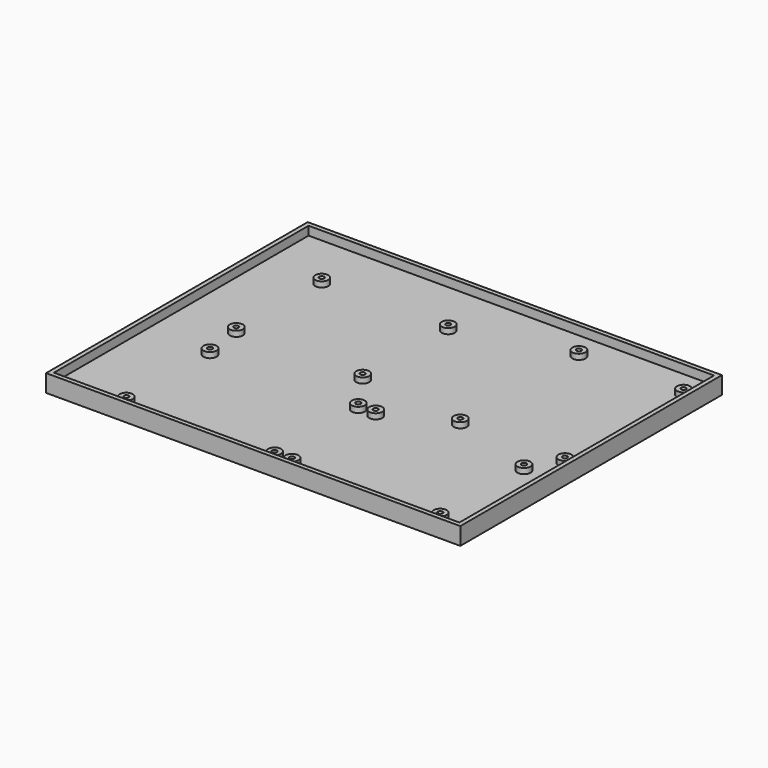
from build123d import *

# Parameters (mm, degrees)
SKETCH_W      = 190
SKETCH_H      = 150
PAD_DEPTH     = 4
SKETCH002_W   = 190
SKETCH002_H   = 150
SKETCH002_W_2 = 186
SKETCH002_H_2 = 146
PAD001_DEPTH  = 8
SKETCH006_R   = 1.1
PAD006_DEPTH  = 6.5
SKETCH007_R   = 3
PAD007_DEPTH  = 6.5
SKETCH008_R   = 1.1
PAD008_DEPTH  = 6.5
SKETCH009_R   = 3
PAD009_DEPTH  = 6.5
SKETCH004_R   = 1.1
PAD004_DEPTH  = 6.5
SKETCH005_R   = 3
PAD005_DEPTH  = 6.5
SKETCH001_R   = 1.1
PAD002_DEPTH  = 6.5
SKETCH003_R   = 3
PAD003_DEPTH  = 6.5


with BuildPart() as pad:
    # Sketch → Pad (new body)
    with BuildSketch(Plane.XY):
        with Locations((95, -75)):
            Rectangle(SKETCH_W, SKETCH_H)
    extrude(amount=PAD_DEPTH)


with BuildPart() as fusion:
    # Sketch002 → Pad001 (new body)
    with BuildSketch(Plane.XY):
        with Locations((95, -75)):
            Rectangle(SKETCH002_W, SKETCH002_H)
        with Locations((95, -75)):
            Rectangle(SKETCH002_W_2, SKETCH002_H_2, mode=Mode.SUBTRACT)
    extrude(amount=PAD001_DEPTH)

    # Fusion: union Pad
    add(pad.part)


with BuildPart() as pad006:
    # Sketch006 → Pad006 (new body)
    with BuildSketch(Plane.XY.offset(2.5)):
        with Locations((108, -96)):
            Circle(SKETCH006_R)
        with Locations((176, -96)):
            Circle(SKETCH006_R)
        with Locations((108, -144)):
            Circle(SKETCH006_R)
        with Locations((176, -144)):
            Circle(SKETCH006_R)
    extrude(amount=PAD006_DEPTH)


with BuildPart() as relay002:
    # Sketch007 → Pad007 (new body)
    with BuildSketch(Plane.XY):
        with Locations((108, -96)):
            Circle(SKETCH007_R)
        with Locations((176, -96)):
            Circle(SKETCH007_R)
        with Locations((108, -144)):
            Circle(SKETCH007_R)
        with Locations((176, -144)):
            Circle(SKETCH007_R)
    extrude(amount=PAD007_DEPTH)

    # Cut002: cut Pad006
    add(pad006.part, mode=Mode.SUBTRACT)


with BuildPart() as pad008:
    # Sketch008 → Pad008 (new body)
    with BuildSketch(Plane.XY.offset(2.5)):
        with Locations((32, -96)):
            Circle(SKETCH008_R)
        with Locations((100, -96)):
            Circle(SKETCH008_R)
        with Locations((32, -144)):
            Circle(SKETCH008_R)
        with Locations((100, -144)):
            Circle(SKETCH008_R)
    extrude(amount=PAD008_DEPTH)


with BuildPart() as relay003:
    # Sketch009 → Pad009 (new body)
    with BuildSketch(Plane.XY):
        with Locations((32, -96)):
            Circle(SKETCH009_R)
        with Locations((100, -96)):
            Circle(SKETCH009_R)
        with Locations((32, -144)):
            Circle(SKETCH009_R)
        with Locations((100, -144)):
            Circle(SKETCH009_R)
    extrude(amount=PAD009_DEPTH)

    # Cut003: cut Pad008
    add(pad008.part, mode=Mode.SUBTRACT)


with BuildPart() as pad004:
    # Sketch004 → Pad004 (new body)
    with BuildSketch(Plane.XY.offset(2.5)):
        with Locations((136, -14.5)):
            Circle(SKETCH004_R)
        with Locations((184, -14.5)):
            Circle(SKETCH004_R)
        with Locations((136, -82.5)):
            Circle(SKETCH004_R)
        with Locations((184, -82.5)):
            Circle(SKETCH004_R)
    extrude(amount=PAD004_DEPTH)


with BuildPart() as relay1:
    # Sketch005 → Pad005 (new body)
    with BuildSketch(Plane.XY):
        with Locations((136, -14.5)):
            Circle(SKETCH005_R)
        with Locations((184, -14.5)):
            Circle(SKETCH005_R)
        with Locations((136, -82.5)):
            Circle(SKETCH005_R)
        with Locations((184, -82.5)):
            Circle(SKETCH005_R)
    extrude(amount=PAD005_DEPTH)

    # Cut001: cut Pad004
    add(pad004.part, mode=Mode.SUBTRACT)


with BuildPart() as pad002:
    # Sketch001 → Pad002 (new body)
    with BuildSketch(Plane.XY.offset(2.5)):
        with Locations((29, -28.2)):
            Circle(SKETCH001_R)
        with Locations((29, -77.2)):
            Circle(SKETCH001_R)
        with Locations((87, -28.2)):
            Circle(SKETCH001_R)
        with Locations((87, -77.2)):
            Circle(SKETCH001_R)
    extrude(amount=PAD002_DEPTH)


with BuildPart() as fusion001:
    # Sketch003 → Pad003 (new body)
    with BuildSketch(Plane.XY):
        with Locations((29, -28.2)):
            Circle(SKETCH003_R)
        with Locations((87, -28.2)):
            Circle(SKETCH003_R)
        with Locations((87, -77.2)):
            Circle(SKETCH003_R)
        with Locations((29, -77.2)):
            Circle(SKETCH003_R)
    extrude(amount=PAD003_DEPTH)

    # Cut: cut Pad002
    add(pad002.part, mode=Mode.SUBTRACT)

    # Fusion001: union Relay002, Relay003, Relay1
    add(relay002.part)
    add(relay003.part)
    add(relay1.part)


solid = Compound([fusion.part, fusion001.part])
